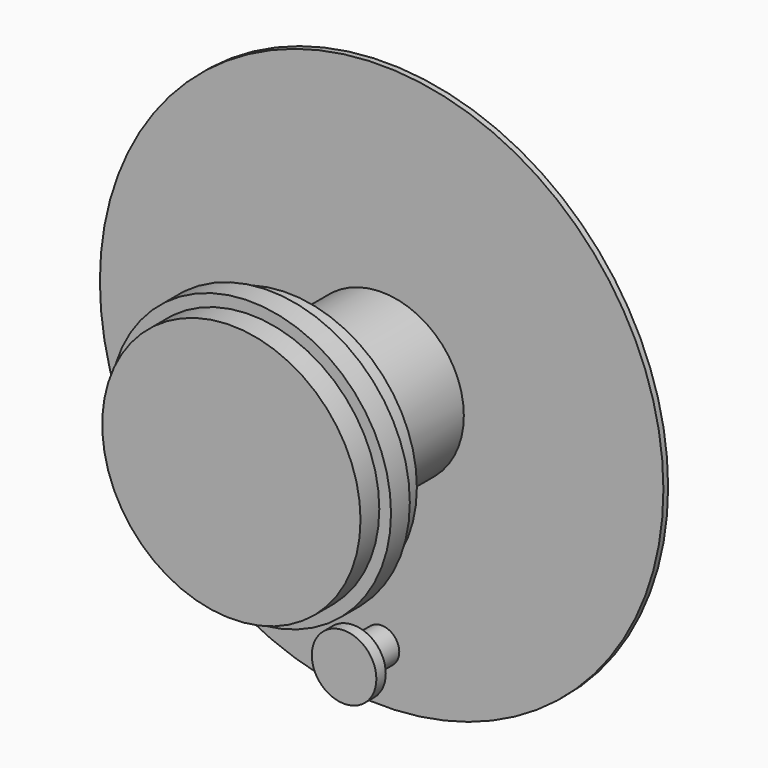
from build123d import *

# Parameters (mm, degrees)
F0_R      = 304.8
F1_DEPTH  = 6.35
F2_R      = 88.9
F2_R_2    = 85.725
F3_DEPTH  = 127
F4_DEPTH  = 25.4
F5_START  = 127
F2_R_3    = 139.7
F5_DEPTH  = 25.4
F6_START  = 152.4
F2_R_4    = 152.4
F6_DEPTH  = 25.4
F7_START  = 177.8
F7_DEPTH  = 25.4
F2_R_5    = 15.875
F8_DEPTH  = 25.4
F2_R_6    = 19.05
F9_DEPTH  = 38.1
F10_START = 38.1
F2_R_7    = 34.925
F10_DEPTH = 12.7


with BuildPart() as f1:
    # F0 (on Front) → F1 (new body)
    with BuildSketch(Plane.XZ):
        Circle(F0_R)
    extrude(amount=F1_DEPTH)

    # F2 (on face) → F3 (join)
    with BuildSketch(Plane.XZ.offset(6.35)):
        Circle(F2_R)
        Circle(F2_R_2, mode=Mode.SUBTRACT)
    extrude(amount=F3_DEPTH)

    # F2 (on face) → F4 (cut)
    with BuildSketch(Plane.XZ.offset(6.35)):
        Circle(F2_R_2)
    extrude(amount=-F4_DEPTH, mode=Mode.SUBTRACT)

    # F2 (on face) → F5 (join)
    with BuildSketch(Plane.XZ.offset(6.35).offset(F5_START)):
        Circle(F2_R_3)
        Circle(F2_R, mode=Mode.SUBTRACT)
        Circle(F2_R)
        Circle(F2_R_2, mode=Mode.SUBTRACT)
        Circle(F2_R_2)
    extrude(amount=F5_DEPTH)

    # F2 (on face) → F6 (join)
    with BuildSketch(Plane.XZ.offset(6.35).offset(F6_START)):
        Circle(F2_R_4)
        Circle(F2_R_3, mode=Mode.SUBTRACT)
        Circle(F2_R_3)
        Circle(F2_R, mode=Mode.SUBTRACT)
        Circle(F2_R)
        Circle(F2_R_2, mode=Mode.SUBTRACT)
        Circle(F2_R_2)
    extrude(amount=F6_DEPTH)

    # F2 (on face) → F7 (join)
    with BuildSketch(Plane.XZ.offset(6.35).offset(F7_START)):
        Circle(F2_R_3)
        Circle(F2_R, mode=Mode.SUBTRACT)
        Circle(F2_R)
        Circle(F2_R_2, mode=Mode.SUBTRACT)
        Circle(F2_R_2)
    extrude(amount=F7_DEPTH)

    # F2 (on face) → F8 (cut)
    with BuildSketch(Plane.XZ.offset(6.35)):
        with Locations((0, -247.65)):
            Circle(F2_R_5)
    extrude(amount=-F8_DEPTH, mode=Mode.SUBTRACT)

    # F2 (on face) → F9 (join)
    with BuildSketch(Plane.XZ.offset(6.35)):
        with Locations((0, -247.65)):
            Circle(F2_R_6)
        with Locations((0, -247.65)):
            Circle(F2_R_5, mode=Mode.SUBTRACT)
    extrude(amount=F9_DEPTH)

    # F2 (on face) → F10 (join)
    with BuildSketch(Plane.XZ.offset(6.35).offset(F10_START)):
        with Locations((0, -247.65)):
            Circle(F2_R_7)
        with Locations((0, -247.65)):
            Circle(F2_R_6, mode=Mode.SUBTRACT)
        with Locations((0, -247.65)):
            Circle(F2_R_6)
        with Locations((0, -247.65)):
            Circle(F2_R_5, mode=Mode.SUBTRACT)
        with Locations((0, -247.65)):
            Circle(F2_R_5)
    extrude(amount=F10_DEPTH)


solid = f1.part
